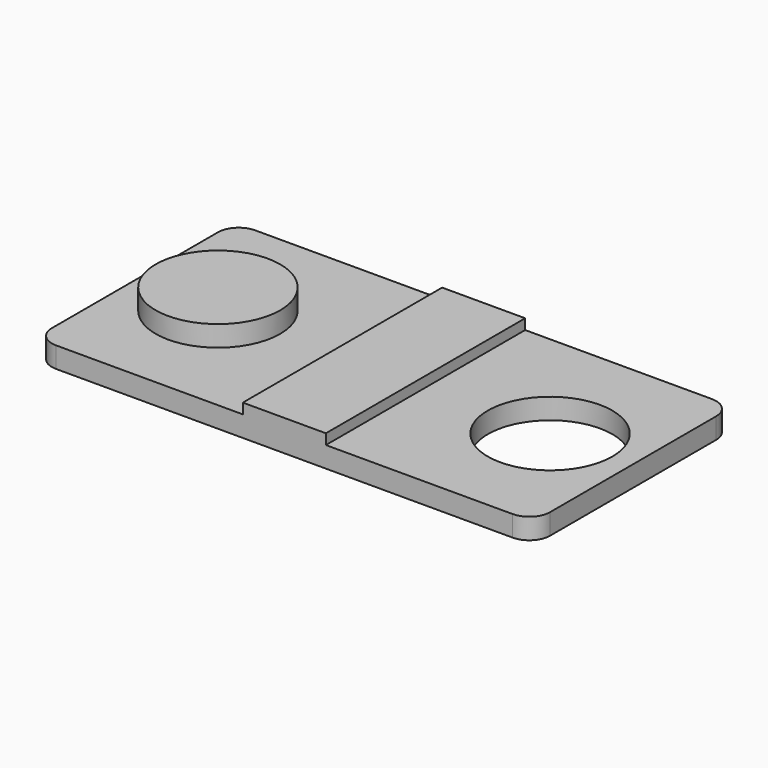
from build123d import *

# Parameters (mm, degrees)
F0_W     = 120
F0_H     = 60
F0_R     = 15
F1_DEPTH = 5
F2_R     = 5
F3_R     = 15
F4_DEPTH = 5
F5_W     = 20
F5_H     = 60
F6_DEPTH = 2.5


with BuildPart() as f1:
    # F0 (on Top) → F1 (new body)
    with BuildSketch(Plane.XY):
        Rectangle(F0_W, F0_H)
        with Locations((40, 0)):
            Circle(F0_R, mode=Mode.SUBTRACT)
    extrude(amount=F1_DEPTH)

    # F2
    f2_edges = [f1.edges().sort_by_distance(p)[0] for p in [
        (60, 30, 2.5),
        (60, -30, 2.5),
        (-60, -30, 2.5),
        (-60, 30, 2.5),
    ]]
    fillet(f2_edges, radius=F2_R)

    # F3 (on face) → F4 (join)
    with BuildSketch(Plane.XY.offset(5)):
        with Locations((-40, 0)):
            Circle(F3_R)
    extrude(amount=F4_DEPTH)

    # F5 (on face) → F6 (join)
    with BuildSketch(Plane.XY.offset(5)):
        Rectangle(F5_W, F5_H)
    extrude(amount=F6_DEPTH)


solid = f1.part
